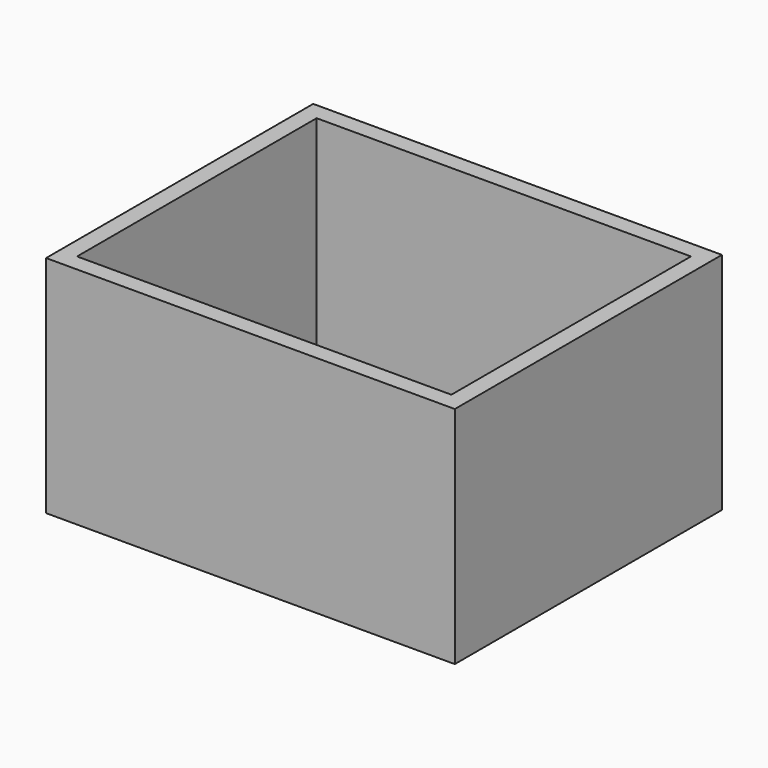
from build123d import *

# Parameters (mm, degrees)
F1_W     = 23
F1_H     = 400
F2_DEPTH = 300


with BuildPart() as f2:
    # F1 (on Top) → F2 (new body)
    with BuildSketch(Plane.XY):
        with Locations((-261.5, 0)):
            Rectangle(F1_W, F1_H)
        Polygon((-273, 200), (-250, 200), (250, 200), (273, 200), (273, 223), (-273, 223), align=None)
        Polygon((250, -200), (-250, -200), (-273, -200), (-273, -223), (273, -223), (273, -200), align=None)
        with Locations((261.5, 0)):
            Rectangle(F1_W, F1_H)
    extrude(amount=F2_DEPTH)


solid = f2.part
